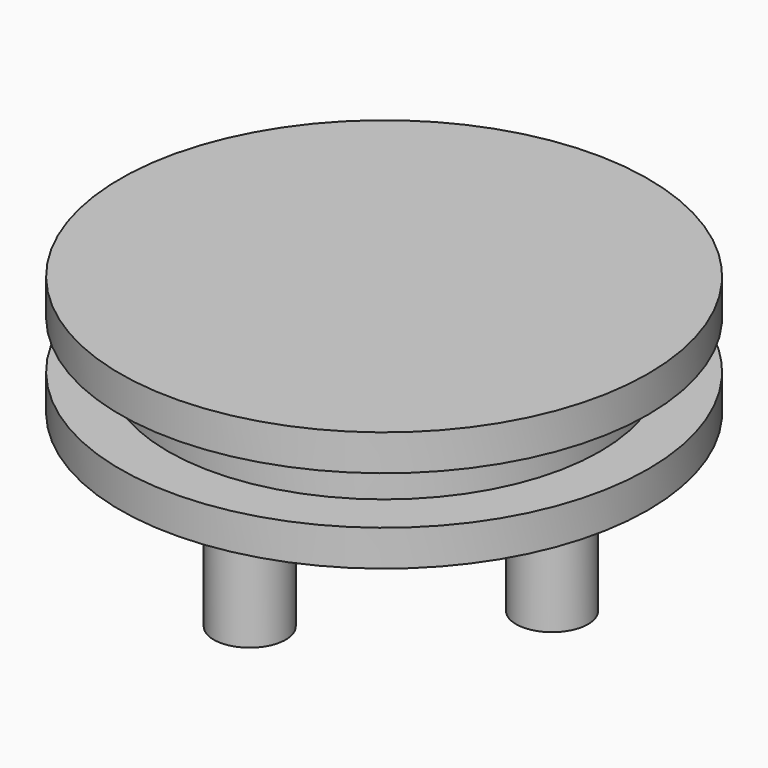
from build123d import *

# Parameters (mm, degrees)
CYLINDER913_R             = 1.5
CYLINDER913_DEPTH         = 5
CYLINDER914_R             = 1.5
CYLINDER914_DEPTH         = 5
CYLINDER915_R             = 1.5
CYLINDER915_DEPTH         = 5
CYLINDER916_R             = 1.5
CYLINDER916_DEPTH         = 5
FUSION064_PLACEMENT_ANGLE = 90
CYLINDER909_R             = 11
CYLINDER909_DEPTH         = 1.5
CYLINDER910_R             = 11
CYLINDER910_DEPTH         = 1.5
CYLINDER908_R             = 9
CYLINDER908_DEPTH         = 2


with BuildPart() as cylinder913:
    # Cylinder913 → Cylinder913 (new body)
    with BuildSketch(Plane(origin=(7, 0, 0), x_dir=(1, 0, 0), z_dir=(0, 0, 1))):
        Circle(CYLINDER913_R)
    extrude(amount=CYLINDER913_DEPTH)


with BuildPart() as fusion063:
    # Cylinder914 → Cylinder914 (new body)
    with BuildSketch(Plane(origin=(-7, 0, 0), x_dir=(1, 0, 0), z_dir=(0, 0, 1))):
        Circle(CYLINDER914_R)
    extrude(amount=CYLINDER914_DEPTH)

    # Fusion063: union Cylinder913
    add(cylinder913.part)


with BuildPart() as cylinder915:
    # Cylinder915 → Cylinder915 (new body)
    with BuildSketch(Plane(origin=(7, 0, 0), x_dir=(1, 0, 0), z_dir=(0, 0, 1))):
        Circle(CYLINDER915_R)
    extrude(amount=CYLINDER915_DEPTH)


with BuildPart() as fusion065:
    # Cylinder916 → Cylinder916 (new body)
    with BuildSketch(Plane(origin=(-7, 0, 0), x_dir=(1, 0, 0), z_dir=(0, 0, 1))):
        Circle(CYLINDER916_R)
    extrude(amount=CYLINDER916_DEPTH)

    # Fusion064: union Cylinder915
    add(cylinder915.part)


with BuildPart() as fusion065_1:
    # Fusion064 placement: moved
    add(fusion065.part.rotate(Axis((0, 0, 0), (0, 0, 1)), FUSION064_PLACEMENT_ANGLE))

    # Fusion065: union Fusion063
    add(fusion063.part)


with BuildPart() as fusion065_2:
    # Fusion065 placement: moved
    add(fusion065_1.part.moved(Location((0, 0, 8))))


with BuildPart() as cylinder909:
    # Cylinder909 → Cylinder909 (new body)
    with BuildSketch(Plane.XY.offset(15.5)):
        Circle(CYLINDER909_R)
    extrude(amount=CYLINDER909_DEPTH)


with BuildPart() as cylinder910:
    # Cylinder910 → Cylinder910 (new body)
    with BuildSketch(Plane.XY.offset(12)):
        Circle(CYLINDER910_R)
    extrude(amount=CYLINDER910_DEPTH)


with BuildPart() as selector_gear:
    # Cylinder908 → Cylinder908 (new body)
    with BuildSketch(Plane.XY.offset(13.5)):
        Circle(CYLINDER908_R)
    extrude(amount=CYLINDER908_DEPTH)

    # Fusion072: union Cylinder909, Cylinder910
    add(cylinder909.part)
    add(cylinder910.part)


with BuildPart() as selector_gear_1:
    # Fusion072 placement: moved
    add(selector_gear.part.moved(Location((0, 0, 1))))

    # Fusion073: union Fusion065
    add(fusion065_2.part)


with BuildPart() as selector_gear_2:
    # Fusion073 placement: moved
    add(selector_gear_1.part.moved(Location((0, 0, -1.5))))


solid = selector_gear_2.part
